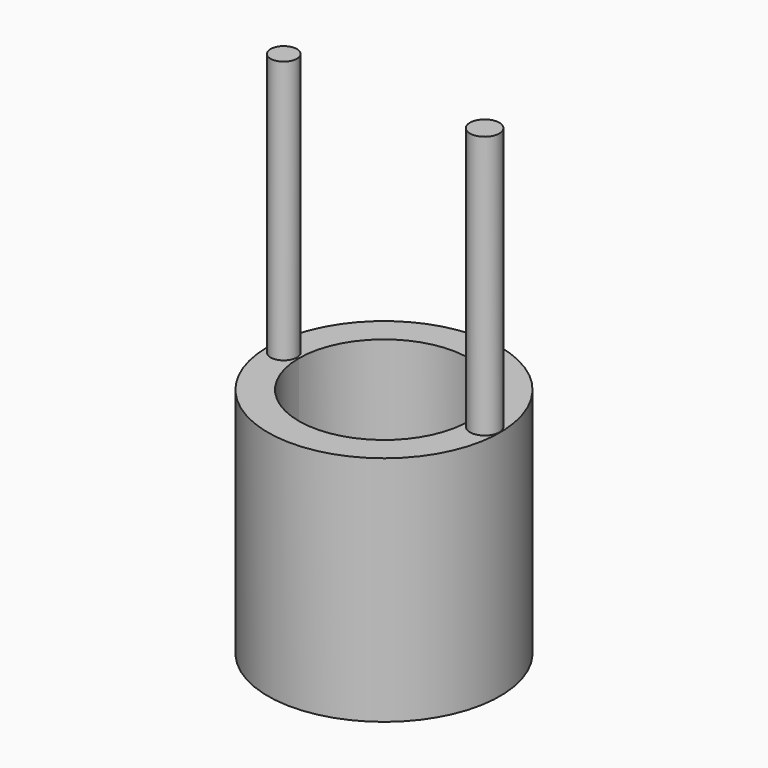
from build123d import *

# Parameters (mm, degrees)
F0_R     = 9.5
F1_DEPTH = 150
F2_DEPTH = 20
F3_DEPTH = 20
F4_DEPTH = 300
F5_DEPTH = 300


with BuildPart() as f1:
    # F0 (on Top) → F1 (new body)
    with BuildSketch(Plane.XY):
        with BuildLine():
            ThreePointArc((-74.9990347614, 0.3805060562), (-74.99975869, 0.1902536402), (-75, 0))
            ThreePointArc((-75, 0), (0, -75), (75, 0))
            ThreePointArc((75, 0), (0.1902536402, 74.99975869), (-74.9990347614, 0.3805060562))
        make_face()
        with BuildLine():
            ThreePointArc((-73.2942603105, 0), (-64.7942603105, 8.5738779646), (-56.2942603105, 0))
            ThreePointArc((-56.2942603105, 0), (-64.7942603105, -8.5), (-73.2942603105, 0))
        make_face(mode=Mode.SUBTRACT)
        with BuildLine():
            ThreePointArc((-55, 0), (-54.9998230393, 0.1395193362), (-54.9992921584, 0.2790377745))
            ThreePointArc((-54.9992921584, 0.2790377745), (0.1395193362, 54.9998230393), (55, 0))
            ThreePointArc((55, 0), (0, -55), (-55, 0))
        make_face(mode=Mode.SUBTRACT)
        with Locations((65.0509051438, 0)):
            Circle(F0_R, mode=Mode.SUBTRACT)
    extrude(amount=F1_DEPTH)

    # F0 (on Top) → F2 (join)
    with BuildSketch(Plane.XY):
        with BuildLine():
            ThreePointArc((-74.9990347614, 0.3805060562), (-74.99975869, 0.1902536402), (-75, 0))
            ThreePointArc((-75, 0), (0, -75), (75, 0))
            ThreePointArc((75, 0), (0.1902536402, 74.99975869), (-74.9990347614, 0.3805060562))
        make_face()
        with BuildLine():
            ThreePointArc((-73.2942603105, 0), (-64.7942603105, 8.5738779646), (-56.2942603105, 0))
            ThreePointArc((-56.2942603105, 0), (-64.7942603105, -8.5), (-73.2942603105, 0))
        make_face(mode=Mode.SUBTRACT)
        with BuildLine():
            ThreePointArc((-55, 0), (-54.9998230393, 0.1395193362), (-54.9992921584, 0.2790377745))
            ThreePointArc((-54.9992921584, 0.2790377745), (0.1395193362, 54.9998230393), (55, 0))
            ThreePointArc((55, 0), (0, -55), (-55, 0))
        make_face(mode=Mode.SUBTRACT)
        with Locations((65.0509051438, 0)):
            Circle(F0_R, mode=Mode.SUBTRACT)
        with BuildLine():
            ThreePointArc((-55, 0), (-54.998672885, 0.1395164185), (-54.9992921584, 0.2790377745))
            ThreePointArc((-54.9992921584, 0.2790377745), (-54.9998230393, 0.1395193362), (-55, 0))
        make_face()
        with BuildLine():
            ThreePointArc((55, 0), (0.1395193362, 54.9998230393), (-54.9992921584, 0.2790377745))
            ThreePointArc((-54.9992921584, 0.2790377745), (-54.998672885, 0.1395164185), (-55, 0))
            ThreePointArc((-55, 0), (0, -55), (55, 0))
        make_face()
    extrude(amount=F2_DEPTH)

    # F0 (on Top) → F3 (join)
    with BuildSketch(Plane.XY):
        with BuildLine():
            ThreePointArc((-73.2942603105, 0), (-64.7942603105, -8.5), (-56.2942603105, 0))
            ThreePointArc((-56.2942603105, 0), (-64.7942603105, 8.5), (-73.2942603105, 0))
        make_face()
        with Locations((65.0509051438, 0)):
            Circle(F0_R)
    extrude(amount=F3_DEPTH)

    # F4 (add): a face of the model
    f4_faces = [f1.faces().sort_by_distance(p)[0] for p in [
        (-64.7942603105, 0, 20),
    ]]
    extrude(f4_faces, amount=F4_DEPTH)

    # F5 (add): a face of the model
    f5_faces = [f1.faces().sort_by_distance(p)[0] for p in [
        (65.0509051438, 0, 20),
    ]]
    extrude(f5_faces, amount=F5_DEPTH)


solid = f1.part
